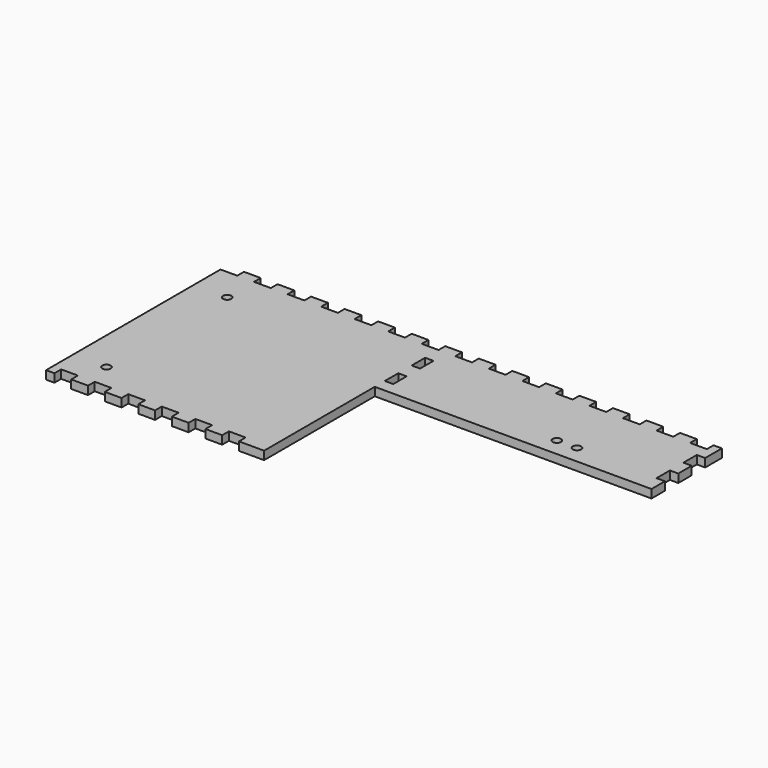
from build123d import *

# Parameters (mm, degrees)
PAD_DEPTH       = 2.5
SKETCH001_W     = 5
SKETCH001_H     = 10
POCKET_DEPTH    = 5.001
SKETCH002_W     = 10
SKETCH002_H     = 5
POCKET001_DEPTH = 5.001
SKETCH003_W     = 5
SKETCH003_H     = 10
POCKET002_DEPTH = 5.001
SKETCH004_W     = 10
SKETCH004_H     = 5
POCKET003_DEPTH = 5.001
SKETCH005_R     = 2.5
POCKET004_DEPTH = 5.001
SKETCH006_R     = 2.5
POCKET005_DEPTH = 5.001


with BuildPart() as part:
    # Sketch → Pad (new body, symmetric)
    with BuildSketch(Plane.XY):
        Polygon((0, 0), (0, 135), (295, 135), (295, 82.5), (130, 82.5), (130, 0), align=None)
    extrude(amount=PAD_DEPTH, both=True)

    # Sketch001 (on Face8 of Pad) → Pocket (cut, through all)
    with BuildSketch(Plane.XY.offset(2.5)):
        with Locations((292.5, 97.5)):
            Rectangle(SKETCH001_W, SKETCH001_H)
        with Locations((292.5, 117.5)):
            Rectangle(SKETCH001_W, SKETCH001_H)
    extrude(amount=-POCKET_DEPTH, mode=Mode.SUBTRACT)

    # Sketch002 (on Face5 of Pocket) → Pocket001 (cut, through all)
    with BuildSketch(Plane.XY.offset(2.5)):
        with Locations((5, 132.5)):
            Rectangle(SKETCH002_W, SKETCH002_H)
        with Locations((25, 132.5)):
            Rectangle(SKETCH002_W, SKETCH002_H)
        with Locations((45, 132.5)):
            Rectangle(SKETCH002_W, SKETCH002_H)
        with Locations((65, 132.5)):
            Rectangle(SKETCH002_W, SKETCH002_H)
        with Locations((85, 132.5)):
            Rectangle(SKETCH002_W, SKETCH002_H)
        with Locations((105, 132.5)):
            Rectangle(SKETCH002_W, SKETCH002_H)
        with Locations((125, 132.5)):
            Rectangle(SKETCH002_W, SKETCH002_H)
        with Locations((145, 132.5)):
            Rectangle(SKETCH002_W, SKETCH002_H)
        with Locations((165, 132.5)):
            Rectangle(SKETCH002_W, SKETCH002_H)
        with Locations((185, 132.5)):
            Rectangle(SKETCH002_W, SKETCH002_H)
        with Locations((205, 132.5)):
            Rectangle(SKETCH002_W, SKETCH002_H)
        with Locations((225, 132.5)):
            Rectangle(SKETCH002_W, SKETCH002_H)
        with Locations((245, 132.5)):
            Rectangle(SKETCH002_W, SKETCH002_H)
        with Locations((265, 132.5)):
            Rectangle(SKETCH002_W, SKETCH002_H)
        with Locations((285, 132.5)):
            Rectangle(SKETCH002_W, SKETCH002_H)
    extrude(amount=-POCKET001_DEPTH, mode=Mode.SUBTRACT)

    # Sketch003 (on Face4 of Pocket001) → Pocket002 (cut, through all)
    with BuildSketch(Plane.XY.offset(2.5)):
        with Locations((132.5, 95)):
            Rectangle(SKETCH003_W, SKETCH003_H)
        with Locations((132.5, 115)):
            Rectangle(SKETCH003_W, SKETCH003_H)
    extrude(amount=-POCKET002_DEPTH, mode=Mode.SUBTRACT)

    # Sketch004 (on Face4 of Pocket002) → Pocket003 (cut, through all)
    with BuildSketch(Plane.XY.offset(2.5)):
        with Locations((10, 2.5)):
            Rectangle(SKETCH004_W, SKETCH004_H)
        with Locations((30, 2.5)):
            Rectangle(SKETCH004_W, SKETCH004_H)
        with Locations((50, 2.5)):
            Rectangle(SKETCH004_W, SKETCH004_H)
        with Locations((70, 2.5)):
            Rectangle(SKETCH004_W, SKETCH004_H)
        with Locations((90, 2.5)):
            Rectangle(SKETCH004_W, SKETCH004_H)
        with Locations((110, 2.5)):
            Rectangle(SKETCH004_W, SKETCH004_H)
    extrude(amount=-POCKET003_DEPTH, mode=Mode.SUBTRACT)

    # Sketch005 (on Face4 of Pocket003) → Pocket004 (cut, through all)
    with BuildSketch(Plane.XY.offset(2.5)):
        with Locations((20, 110)):
            Circle(SKETCH005_R)
        with Locations((20, 20)):
            Circle(SKETCH005_R)
    extrude(amount=-POCKET004_DEPTH, mode=Mode.SUBTRACT)

    # Sketch006 (on Face4 of Pocket004) → Pocket005 (cut, through all)
    with BuildSketch(Plane.XY.offset(2.5)):
        with Locations((230, 93.2)):
            Circle(SKETCH006_R)
        with Locations((242, 93.2)):
            Circle(SKETCH006_R)
    extrude(amount=-POCKET005_DEPTH, mode=Mode.SUBTRACT)


solid = part.part
